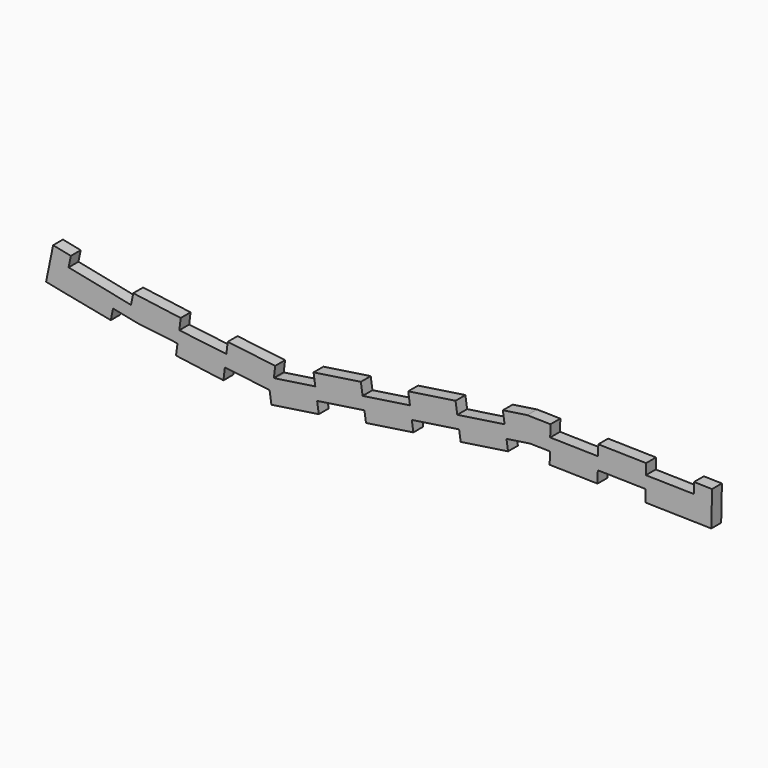
from build123d import *

# Parameters (mm, degrees)
F1_DEPTH = 3.27


with BuildPart() as f1:
    # F0 (on Front) → F1 (new body)
    with BuildSketch(Plane.XZ):
        Polygon((88.0849202076, -6.1928071498), (88.0849202076, -2.9228071498), (84.155737444, -2.8377134103), (84.0849513189, -6.1062455567), align=None)
        Polygon((84.155737444, -2.8377134103), (88.0849202076, -2.9228071498), (88.0849202076, -6.1928071498), (84.0849513189, -6.1062455567), (84.0164814126, -9.2678268597), (88.8164814126, -9.3717797613), (89.0171933904, -0.1039529016), (84.2171933904, 0), align=None)
        Polygon((84.0849513189, -6.1062455567), (84.155737444, -2.8377134103), (71.4586099838, -2.5627335684), (71.387872598, -5.8314735793), align=None)
        Polygon((71.387872598, -5.8314735793), (71.4586099838, -2.5627335684), (58.7615872094, -2.2877559936), (58.6908453502, -5.5567027157), align=None)
        Polygon((58.7615872094, -2.2877559936), (71.4586099838, -2.5627335684), (71.5200152581, 0.27477413), (58.8229924837, 0.5497517048), align=None)
        Polygon((84.0164814126, -9.2678268597), (84.0849513189, -6.1062455567), (71.387872598, -5.8314735793), (71.3194541632, -8.9930559962), align=None)
        Polygon((58.6908453502, -5.5567027157), (58.7615872094, -2.2877559936), (46.0645644334, -2.0127784187), (45.9938181008, -5.2819318522), align=None)
        with BuildLine():
            Line((45.9938181008, -5.2819318522), (46.0645644334, -2.0127784187))
            Line((46.0645644334, -2.0127784187), (41.0805670131, -1.9048407118))
            ThreePointArc((41.0805670131, -1.9048407118), (40.5264072315, -1.9163330219), (39.9752108165, -1.9747080916))
            Line((39.9752108165, -1.9747080916), (33.9712176037, -2.8692401974))
            Line((33.9712176037, -2.8692401974), (34.4530943895, -6.1035399305))
            Line((34.4530943895, -6.1035399305), (40.4570876022, -5.2090078247))
            ThreePointArc((40.4570876022, -5.2090078247), (40.7326592445, -5.1798219691), (41.0097124764, -5.1740729826))
            Line((41.0097124764, -5.1740729826), (45.9938181008, -5.2819318522))
        make_face()
        with BuildLine():
            Line((41.0805670131, -1.9048407118), (46.0645644334, -2.0127784187))
            Line((46.0645644334, -2.0127784187), (46.1317693836, 1.0927294697))
            Line((46.1317693836, 1.0927294697), (39.9752108165, 1.2259608853))
            Line((39.9752108165, 1.2259608853), (33.5047069945, 0.2619235848))
            Line((33.5047069945, 0.2619235848), (33.9712176037, -2.8692401974))
            Line((33.9712176037, -2.8692401974), (39.9752108165, -1.9747080916))
            ThreePointArc((39.9752108165, -1.9747080916), (40.5264072315, -1.9163330219), (41.0805670131, -1.9048407118))
        make_face()
        Polygon((58.6224313888, -8.7180784214), (58.6908453502, -5.5567027157), (45.9938181008, -5.2819318522), (45.9254041394, -8.4433075578), align=None)
        Polygon((34.4530943895, -6.1035399305), (33.9712176037, -2.8692401974), (21.4098700166, -4.7407494263), (21.8917468023, -7.9750491594), align=None)
        Polygon((21.8917468023, -7.9750491594), (21.4098700166, -4.7407494263), (8.8485224294, -6.6122586553), (9.3303992151, -9.8465583884), align=None)
        Polygon((8.8485224294, -6.6122586553), (21.4098700166, -4.7407494263), (20.9433594073, -1.6095856442), (8.3820118202, -3.4810948731), align=None)
        Polygon((34.8707613687, -8.9068710714), (34.4530943895, -6.1035399305), (21.8917468023, -7.9750491594), (22.3094137815, -10.7783803003), align=None)
        Polygon((9.3303992151, -9.8465583884), (8.8485224294, -6.6122586553), (-3.7128251578, -8.4837678842), (-3.2309483721, -11.7180676173), align=None)
        Polygon((-3.2309483721, -11.7180676173), (-3.7128251578, -8.4837678842), (-16.274172745, -10.3552771132), (-15.7922959593, -13.5895768463), align=None)
        Polygon((-16.274172745, -10.3552771132), (-3.7128251578, -8.4837678842), (-4.179335767, -5.3526041021), (-16.7406833542, -7.224113331), align=None)
        Polygon((9.7480661944, -12.6498895293), (9.3303992151, -9.8465583884), (-3.2309483721, -11.7180676173), (-2.8132813928, -14.5213987582), align=None)
        with BuildLine():
            Line((-15.7922959593, -13.5895768463), (-16.274172745, -10.3552771132))
            Line((-16.274172745, -10.3552771132), (-26.8291325696, -11.9278555795))
            ThreePointArc((-26.8291325696, -11.9278555795), (-27.0463868948, -11.9528310654), (-27.2648247248, -11.9632296803))
            Line((-27.2648247248, -11.9632296803), (-27.3333623041, -12.5313407106))
            Line((-27.3333623041, -12.5313407106), (-27.6582478154, -15.224331103))
            ThreePointArc((-27.6582478154, -15.224331103), (-27.0011881523, -15.2262131022), (-26.3472557839, -15.1621553125))
            Line((-26.3472557839, -15.1621553125), (-15.7922959593, -13.5895768463))
        make_face()
        with BuildLine():
            Line((-15.350207165, -16.5568243078), (-15.7922959593, -13.5895768463))
            Line((-15.7922959593, -13.5895768463), (-26.3472557839, -15.1621553125))
            ThreePointArc((-26.3472557839, -15.1621553125), (-27.0011881523, -15.2262131022), (-27.6582478154, -15.224331103))
            ThreePointArc((-27.6582478154, -15.224331103), (-27.8766021467, -15.2090531255), (-28.0943229104, -15.186476597))
            Line((-28.0943229104, -15.186476597), (-28.4000527535, -15.1495929911))
            Line((-28.4000527535, -15.1495929911), (-27.9115547522, -18.4283335368))
            Line((-27.9115547522, -18.4283335368), (-15.350207165, -16.5568243078))
        make_face()
        with BuildLine():
            Line((-27.3333623041, -12.5313407106), (-27.2648247248, -11.9632296803))
            ThreePointArc((-27.2648247248, -11.9632296803), (-27.4841349376, -11.9589696843), (-27.7026661329, -11.9400162217))
            Line((-27.7026661329, -11.9400162217), (-39.8769224488, -10.4712996977))
            Line((-39.8769224488, -10.4712996977), (-40.2685792263, -13.717760073))
            Line((-40.2685792263, -13.717760073), (-28.4000527535, -15.1495929911))
            Line((-28.4000527535, -15.1495929911), (-28.0943229104, -15.186476597))
            ThreePointArc((-28.0943229104, -15.186476597), (-27.8766021467, -15.2090531255), (-27.6582478154, -15.224331103))
            Line((-27.6582478154, -15.224331103), (-27.3333623041, -12.5313407106))
        make_face()
        with BuildLine():
            ThreePointArc((-27.7026661329, -11.9400162217), (-27.4841349376, -11.9589696843), (-27.2648247248, -11.9632296803))
            Line((-27.2648247248, -11.9632296803), (-26.9090273113, -9.0140091622))
            Line((-26.9090273113, -9.0140091622), (-39.5176043042, -7.4928956836))
            Line((-39.5176043042, -7.4928956836), (-39.8769224488, -10.4712996977))
            Line((-39.8769224488, -10.4712996977), (-27.7026661329, -11.9400162217))
        make_face()
        Polygon((-40.2685792263, -13.717760073), (-39.8769224488, -10.4712996977), (-52.3508780033, -8.9664271069), (-52.3940183108, -8.9612226097), (-52.8326980236, -12.2020100831), align=None)
        Polygon((-52.3940183108, -8.9612226097), (-52.3508780033, -8.9664271069), (-51.9915598587, -5.9880230928), align=None)
        Polygon((-40.6498897454, -16.8784598537), (-40.2685792263, -13.717760073), (-52.8326980236, -12.2020100831), (-53.2351142651, -15.1748977649), align=None)
        with BuildLine():
            Line((-52.8326980236, -12.2020100831), (-52.3940183108, -8.9612226097))
            Line((-52.3940183108, -8.9612226097), (-62.6937612549, -7.7186495717))
            ThreePointArc((-62.6937612549, -7.7186495717), (-62.824652475, -7.7001674476), (-62.9546897587, -7.6764102329))
            Line((-62.9546897587, -7.6764102329), (-65.1754864714, -7.224113331))
            Line((-65.1754864714, -7.224113331), (-65.8285059402, -10.4298488094))
            Line((-65.8285059402, -10.4298488094), (-63.6028382914, -10.8815332771))
            ThreePointArc((-63.6028382914, -10.8815332771), (-63.3449657453, -10.9285070615), (-63.0854180325, -10.9651099471))
            Line((-63.0854180325, -10.9651099471), (-52.8326980236, -12.2020100831))
        make_face()
        with BuildLine():
            Line((-62.6937612549, -7.7186495717), (-52.3940183108, -8.9612226097))
            Line((-52.3940183108, -8.9612226097), (-51.9915598587, -5.9880230928))
            Line((-51.9915598587, -5.9880230928), (-64.5767843783, -4.284461004))
            Line((-64.5767843783, -4.284461004), (-65.1754864714, -7.224113331))
            Line((-65.1754864714, -7.224113331), (-62.9546897587, -7.6764102329))
            ThreePointArc((-62.9546897587, -7.6764102329), (-62.824652475, -7.7001674476), (-62.6937612549, -7.7186495717))
        make_face()
        Polygon((-65.8285059402, -10.4298488094), (-65.1754864714, -7.224113331), (-81.7354778523, -3.8514350694), (-82.3907114007, -7.0686592077), (-69.9444316109, -9.5945490301), align=None)
        Polygon((-86.2950797924, -2.9228071498), (-81.7354778523, -3.8514350694), (-81.1461729514, -0.9579233488), (-85.8496166746, 0), (-87.7128069895, -9.1483424039), (-83.0093632663, -10.1062657528), (-82.3907114007, -7.0686592077), (-86.2950797924, -6.2762935732), align=None)
        Polygon((-82.3907114007, -7.0686592077), (-81.7354778523, -3.8514350694), (-86.2950797924, -2.9228071498), (-86.2950797924, -6.2762935732), align=None)
        Polygon((-69.9444316109, -9.5945490301), (-82.3907114007, -7.0686592077), (-83.0093632663, -10.1062657528), (-70.5410984981, -12.5346151222), align=None)
    extrude(amount=F1_DEPTH)


solid = f1.part
